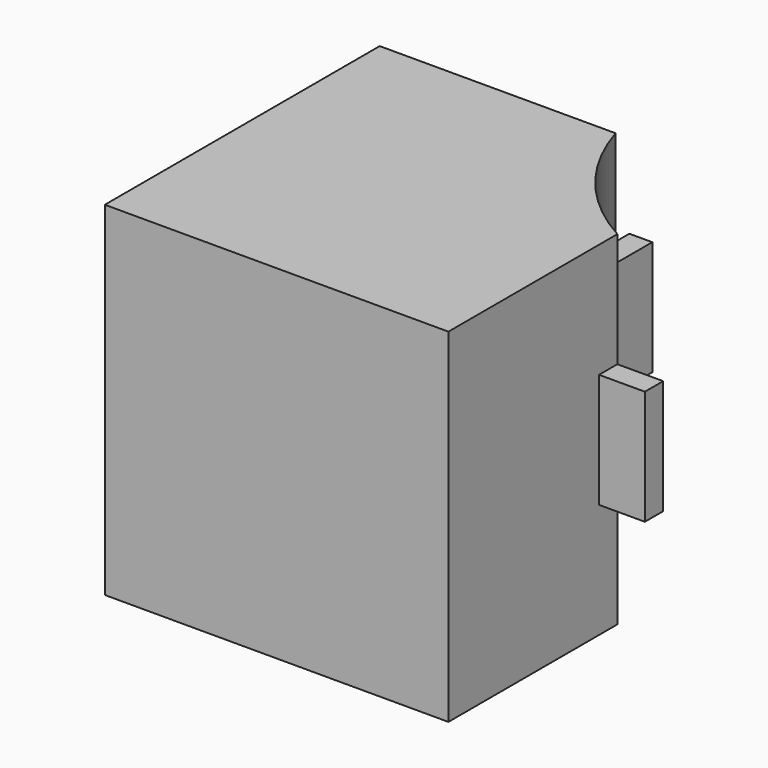
from build123d import *

# Parameters (mm, degrees)
F0_W     = 19.05
F0_H     = 19.05
F1_DEPTH = 19.05
F3_DEPTH = 25.4
F4_W     = 1.27
F4_H     = 6.35
F5_DEPTH = 2.54
F6_W     = 1.27
F6_H     = 6.35
F7_DEPTH = 2.54


with BuildPart() as f1:
    # F0 (on Top) → F1 (new body)
    with BuildSketch(Plane.XY):
        with Locations((-43.75411, 52.740463)):
            Rectangle(F0_W, F0_H)
    extrude(amount=F1_DEPTH)

    # F2 (on face) → F3 (cut)
    with BuildSketch(Plane.XY.offset(19.05)):
        with BuildLine():
            Line((-34.22911, 62.265463), (-40.196911, 62.265463))
            ThreePointArc((-40.196911, 62.265463), (-37.927985, 58.014519), (-34.22911, 54.926336))
            Line((-34.22911, 54.926336), (-34.22911, 62.265463))
        make_face()
    extrude(amount=-F3_DEPTH, mode=Mode.SUBTRACT)

    # F4 (on face) → F5 (join)
    with BuildSketch(Plane.YZ.offset(-34.22911)):
        with Locations((54.291336, 9.525)):
            Rectangle(F4_W, F4_H)
    extrude(amount=F5_DEPTH)

    # F6 (on face) → F7 (join)
    with BuildSketch(Plane(origin=(0, 62.265463, 0), x_dir=(-1, 0, 0), z_dir=(0, 1, 0))):
        with Locations((40.831911, 9.525)):
            Rectangle(F6_W, F6_H)
    extrude(amount=F7_DEPTH)


solid = f1.part
